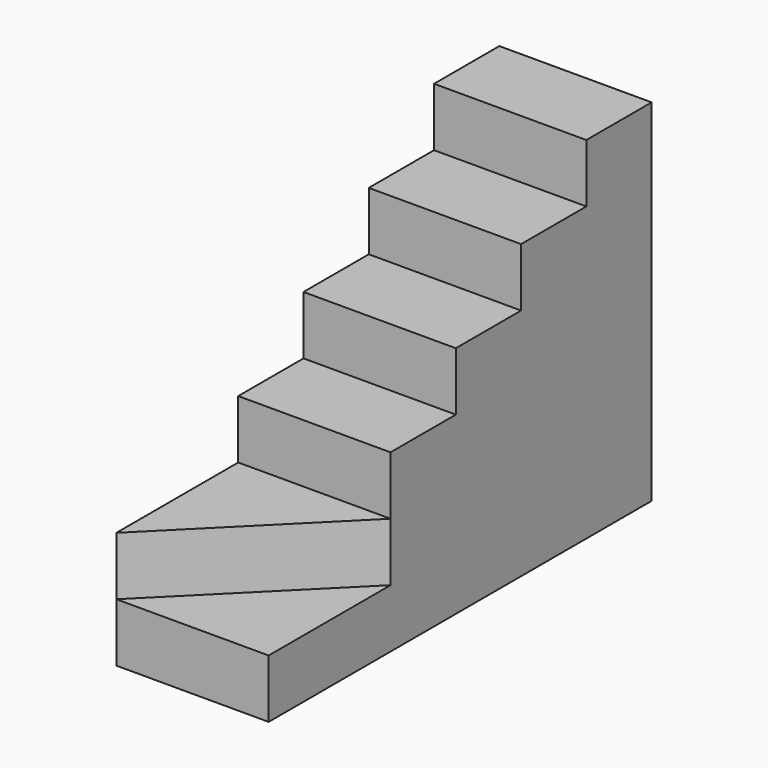
from build123d import *

# Parameters (mm, degrees)
F0_W      = 711.2
F0_H      = 2235.2
F1_DEPTH  = 273.05
F3_DEPTH  = 273.05
F4_W      = 711.2
F4_H      = 1524
F5_DEPTH  = 273.05
F6_W      = 711.2
F6_H      = 1143
F7_DEPTH  = 273.05
F8_W      = 711.2
F8_H      = 762
F9_DEPTH  = 273.05
F10_W     = 711.2
F10_H     = 381
F11_DEPTH = 273.05


with BuildPart() as f1:
    # F0 (on Top) → F1 (new body)
    with BuildSketch(Plane.XY):
        with Locations((355.6, -1117.6)):
            Rectangle(F0_W, F0_H)
    extrude(amount=F1_DEPTH)

    # F2 (on face) → F3 (join)
    with BuildSketch(Plane.XY.offset(273.05)):
        Polygon((0, 0), (0, -2235.2), (711.2, -1524), (711.2, 0), align=None)
    extrude(amount=F3_DEPTH)

    # F4 (on face) → F5 (join)
    with BuildSketch(Plane.XY.offset(546.1)):
        with Locations((355.6, -762)):
            Rectangle(F4_W, F4_H)
    extrude(amount=F5_DEPTH)

    # F6 (on face) → F7 (join)
    with BuildSketch(Plane.XY.offset(819.15)):
        with Locations((355.6, -571.5)):
            Rectangle(F6_W, F6_H)
    extrude(amount=F7_DEPTH)

    # F8 (on face) → F9 (join)
    with BuildSketch(Plane.XY.offset(1092.2)):
        with Locations((355.6, -381)):
            Rectangle(F8_W, F8_H)
    extrude(amount=F9_DEPTH)

    # F10 (on face) → F11 (join)
    with BuildSketch(Plane.XY.offset(1365.25)):
        with Locations((355.6, -190.5)):
            Rectangle(F10_W, F10_H)
    extrude(amount=F11_DEPTH)


solid = f1.part
